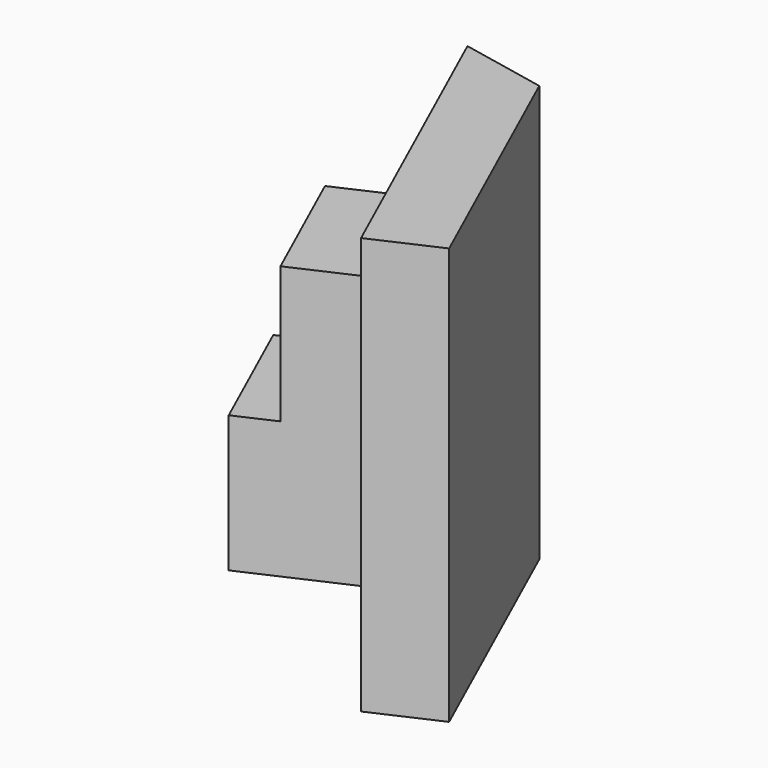
from build123d import *

# Parameters (mm, degrees)
F1_DEPTH = 127
F2_W     = 42.6925110772
F2_H     = 83.2166295946
F3_DEPTH = 25.4
F4_W     = 42.6925110772
F4_H     = 41.6083147973
F5_DEPTH = 12.7


with BuildPart() as f1:
    # F0 (on Top) → F1 (new body)
    with BuildSketch(Plane.XY):
        Polygon((15.3271912833, 67.492875863), (-10.8187645674, 72.8341937065), (31.1941243708, -20.2240943909), (50.9100646707, -11.32296772), align=None)
    extrude(amount=F1_DEPTH)

    # F2 (on face) → F3 (join)
    with BuildSketch(Plane(origin=(18.3279159537, 8.2744773537, 0), x_dir=(0.4114774291, -0.9114199501, 0), z_dir=(-0.9114199501, -0.4114774291, 0))):
        with Locations((-11.9696195438, 63.5)):
            Rectangle(F2_W, F2_H)
    extrude(amount=F3_DEPTH)

    # F4 (on face) → F5 (join)
    with BuildSketch(Plane(origin=(-4.822150778, -2.1770493443, 0), x_dir=(0.4114774291, -0.9114199501, 0), z_dir=(-0.9114199501, -0.4114774291, 0))):
        with Locations((-11.9696195438, 42.6958426014)):
            Rectangle(F4_W, F4_H)
    extrude(amount=F5_DEPTH)


solid = f1.part
